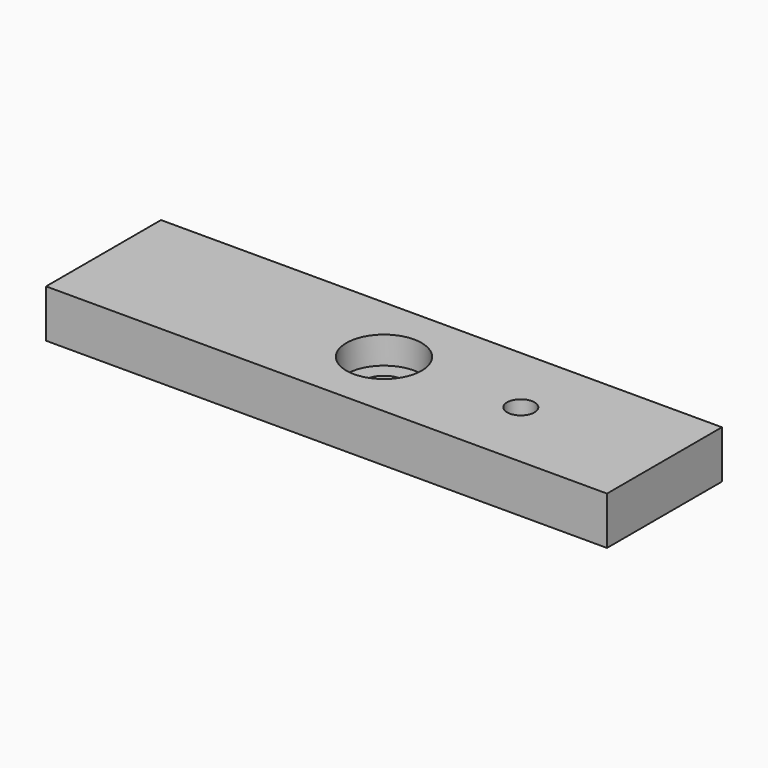
from build123d import *

# Parameters (mm, degrees)
F0_W      = 130.175
F0_H      = 33.3375
F1_DEPTH  = 11.1125
F2_R      = 8.73125
F2_R_2    = 4.7625
F3_DEPTH  = 6.35
F3_FACE_R = 4.7625
F4_DEPTH  = 11.1135
F5_R      = 1.5875
F6_DEPTH  = 6.35
F5_R_2    = 3.175
F7_DEPTH  = 11.1135
F5_R_3    = 4.7625
F8_DEPTH  = 6.35


with BuildPart() as f1:
    # F0 (on Top) → F1 (new body)
    with BuildSketch(Plane.XY):
        Rectangle(F0_W, F0_H)
    extrude(amount=F1_DEPTH)

    # F2 (on face) → F3 (cut)
    with BuildSketch(Plane.XY.offset(11.1125)):
        Circle(F2_R)
        Circle(F2_R_2, mode=Mode.SUBTRACT)
    extrude(amount=-F3_DEPTH, mode=Mode.SUBTRACT)

    # F3_face (on face) → F4 (cut, through all)
    with BuildSketch(Plane.XY.offset(11.1125)):
        Circle(F3_FACE_R)
    extrude(amount=-F4_DEPTH, mode=Mode.SUBTRACT)

    # F5 (on face) → F6 (cut)
    with BuildSketch(Plane.XY):
        with Locations((-49.2125, 0)):
            Circle(F5_R)
        with Locations((49.2125, 0)):
            Circle(F5_R)
    extrude(amount=F6_DEPTH, mode=Mode.SUBTRACT)

    # F5 (on face) → F7 (cut, through all)
    with BuildSketch(Plane.XY):
        with Locations((31.75, 0)):
            Circle(F5_R_2)
    extrude(amount=F7_DEPTH, mode=Mode.SUBTRACT)

    # F5 (on face) → F8 (cut)
    with BuildSketch(Plane.XY):
        with Locations((31.75, 0)):
            Circle(F5_R_3)
        with Locations((31.75, 0)):
            Circle(F5_R_2, mode=Mode.SUBTRACT)
    extrude(amount=F8_DEPTH, mode=Mode.SUBTRACT)


solid = f1.part
